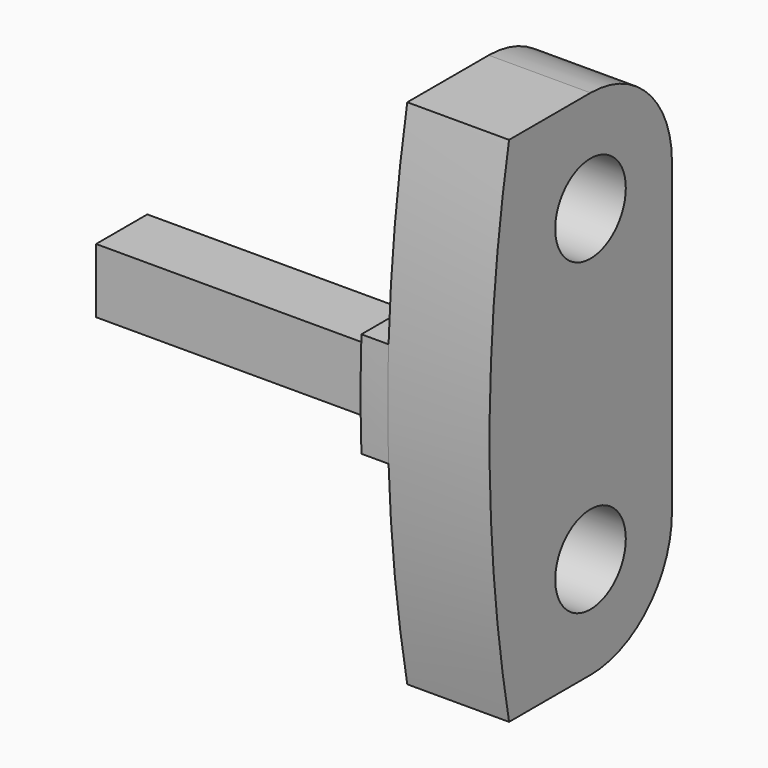
from build123d import *

# Parameters (mm, degrees)
SKETCH001_R  = 2.6
PAD_DEPTH    = 6
PAD001_DEPTH = 1.6
SKETCH003_W  = 3.7771358599
SKETCH003_H  = 3.8
PAD002_DEPTH = 18.2


with BuildPart() as part:
    # Sketch001 → Pad (new body)
    with BuildSketch(Plane.YZ.offset(8.7)):
        with BuildLine():
            ThreePointArc((0, -6), (4.2426406871, -4.2426406871), (6, 0))
            Line((6, 18.2), (6, 0))
            ThreePointArc((6, 18.2), (4.2426406871, 22.4426406871), (0, 24.2))
            Line((0, 24.2), (-6, 24.2))
            ThreePointArc((-6, 24.2), (-7.4371881489, 9.1), (-6, -6))
            Line((0, -6), (-6, -6))
        make_face()
        Circle(SKETCH001_R, mode=Mode.SUBTRACT)
        with Locations((0, 18.2)):
            Circle(SKETCH001_R, mode=Mode.SUBTRACT)
    extrude(amount=PAD_DEPTH)

    # Sketch002 → Pad001 (join)
    with BuildSketch(Plane.YZ.offset(8.7)):
        with BuildLine():
            ThreePointArc((0, 12.2), (3.6774423219, 13.4590699257), (5.8114989668, 16.707860677))
            Line((6, 17.4420237293), (5.8114989668, 16.707860677))
            Line((6, 0.7579762707), (6, 17.4420237293))
            Line((5.8114989668, 1.492139323), (6, 0.7579762707))
            ThreePointArc((5.8114989668, 1.492139323), (3.6774423219, 4.7409300743), (0, 6))
            Line((-7.3771358599, 6), (0, 6))
            ThreePointArc((-7.3771358599, 12.2), (-7.4371881489, 9.1), (-7.3771358599, 6))
            Line((0, 12.2), (-7.3771358599, 12.2))
        make_face()
    extrude(amount=-PAD001_DEPTH)

    # Sketch003 → Pad002 (join)
    with BuildSketch(Plane.YZ.offset(8.7)):
        with Locations((-4.2885679299, 9.1)):
            Rectangle(SKETCH003_W, SKETCH003_H)
    extrude(amount=-PAD002_DEPTH)


with BuildPart() as part_1:
    # Body004 placement: moved
    add(part.part.moved(Location((0, -72.6064407756, 0))))


solid = part_1.part
